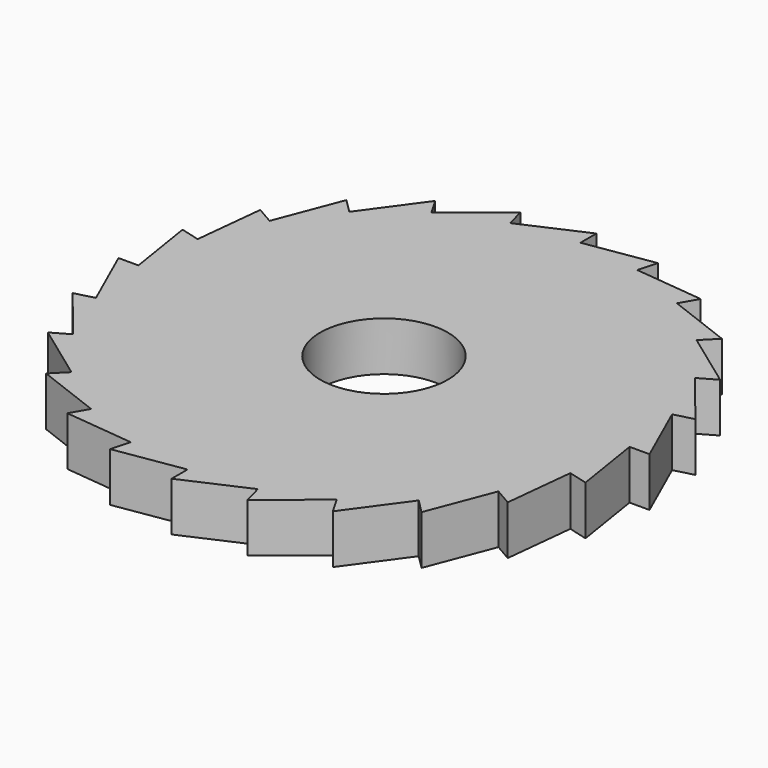
from build123d import *

# Parameters (mm, degrees)
F0_R     = 6.5
F1_DEPTH = 5


with BuildPart() as f1:
    # F0 (on Top) → F1 (new body)
    with BuildSketch(Plane.XY):
        Polygon((6.995617, 26.107997), (0, 25), (0, 27.028987), (-6.470476, 24.148146), (-6.995617, 26.107997), (-12.5, 21.650635), (-13.514494, 23.40779), (-17.67767, 17.67767), (-19.11238, 19.11238), (-21.650635, 12.5), (-23.40779, 13.514494), (-24.148146, 6.470476), (-26.107997, 6.995617), (-25, 0), (-27.028987, 0), (-24.148146, -6.470476), (-26.107997, -6.995617), (-21.650635, -12.5), (-23.40779, -13.514494), (-17.67767, -17.67767), (-19.11238, -19.11238), (-12.5, -21.650635), (-13.514494, -23.40779), (-6.470476, -24.148146), (-6.995617, -26.107997), (0, -25), (0, -27.028987), (6.470476, -24.148146), (6.995617, -26.107997), (12.5, -21.650635), (13.514494, -23.40779), (17.67767, -17.67767), (19.11238, -19.11238), (21.650635, -12.5), (23.40779, -13.514494), (24.148146, -6.470476), (26.107997, -6.995617), (25, 0), (27.028987, 0), (24.148146, 6.470476), (26.107997, 6.995617), (21.650635, 12.5), (23.40779, 13.514494), (17.67767, 17.67767), (19.11238, 19.11238), (12.5, 21.650635), (13.514494, 23.40779), (6.470476, 24.148146), align=None)
        Circle(F0_R, mode=Mode.SUBTRACT)
    extrude(amount=F1_DEPTH)


solid = f1.part
